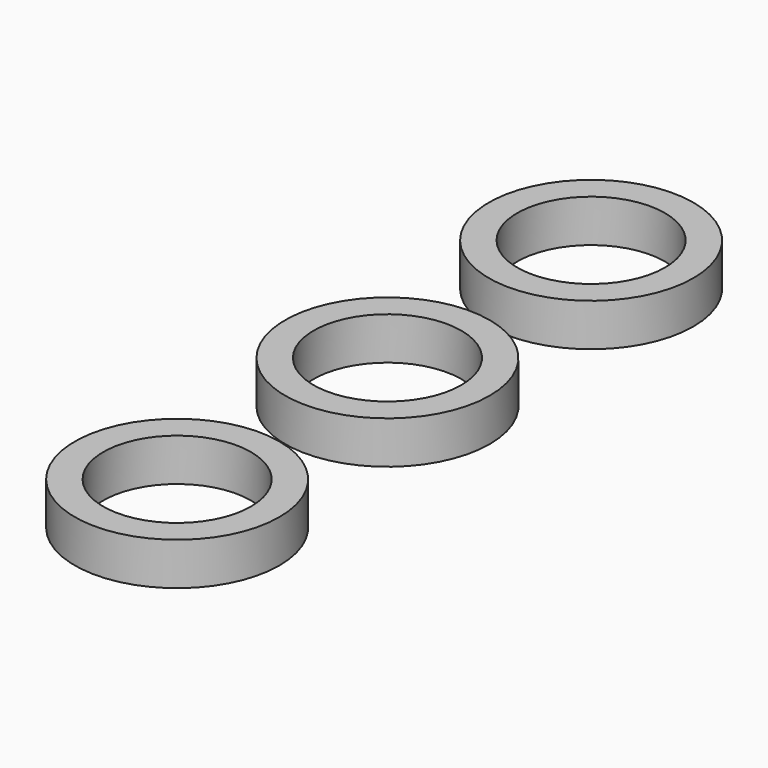
from build123d import *

# Parameters (mm, degrees)
F0_R     = 15.24
F0_R_2   = 10.9982
F1_DEPTH = 6.35


with BuildPart() as f1:
    # F0 (on Top) → F1 (new body)
    with BuildSketch(Plane.XY):
        with Locations((0, 37.915763)):
            Circle(F0_R)
        with Locations((0, 37.915763)):
            Circle(F0_R_2, mode=Mode.SUBTRACT)
        Circle(F0_R)
        Circle(F0_R_2, mode=Mode.SUBTRACT)
        with Locations((0, -39.153829)):
            Circle(F0_R)
        with Locations((0, -39.153829)):
            Circle(F0_R_2, mode=Mode.SUBTRACT)
        with Locations((0, -39.153829)):
            Circle(F0_R)
        with Locations((0, -39.153829)):
            Circle(F0_R_2, mode=Mode.SUBTRACT)
    extrude(amount=F1_DEPTH)


solid = f1.part
